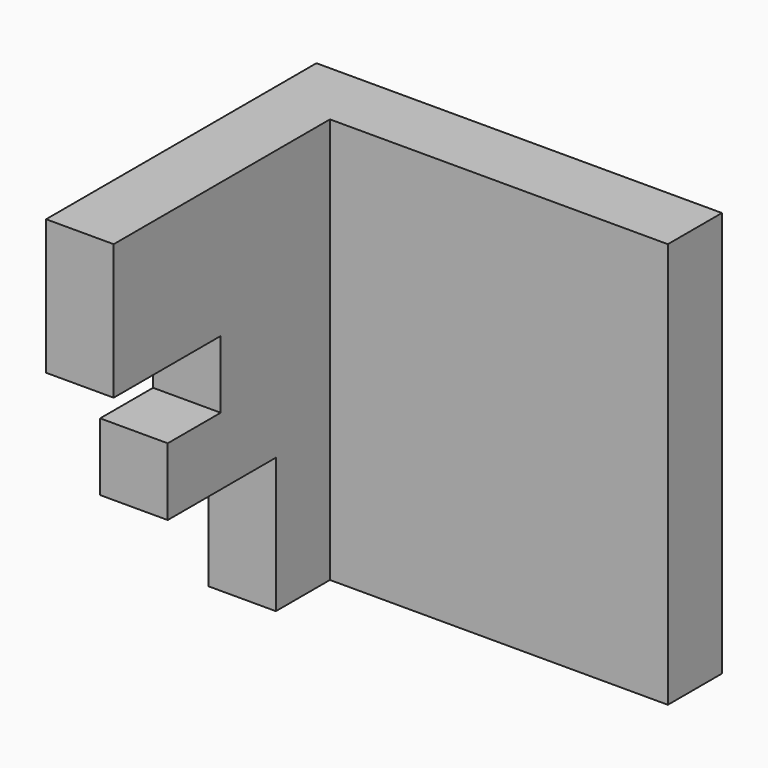
from build123d import *

# Parameters (mm, degrees)
F1_DEPTH = 76.2
F3_DEPTH = 12.7


with BuildPart() as f1:
    # F0 (on Top) → F1 (new body)
    with BuildSketch(Plane.XY):
        Polygon((-42.901252, -15.343401), (-42.901252, -40.743401), (-30.201252, -40.743401), (-30.201252, -28.043401), (33.298748, -28.043401), (33.298748, -15.343401), align=None)
    extrude(amount=F1_DEPTH)

    # F2 (on face) → F3 (join)
    with BuildSketch(Plane.YZ.offset(-30.201252)):
        Polygon((-40.743401, 25.4), (-40.743401, 76.2), (-78.843401, 76.2), (-78.843401, 50.8), (-53.710267, 50.8), (-53.710267, 38.1), (-66.143401, 38.1), (-66.143401, 25.4), align=None)
    extrude(amount=-F3_DEPTH)


solid = f1.part
